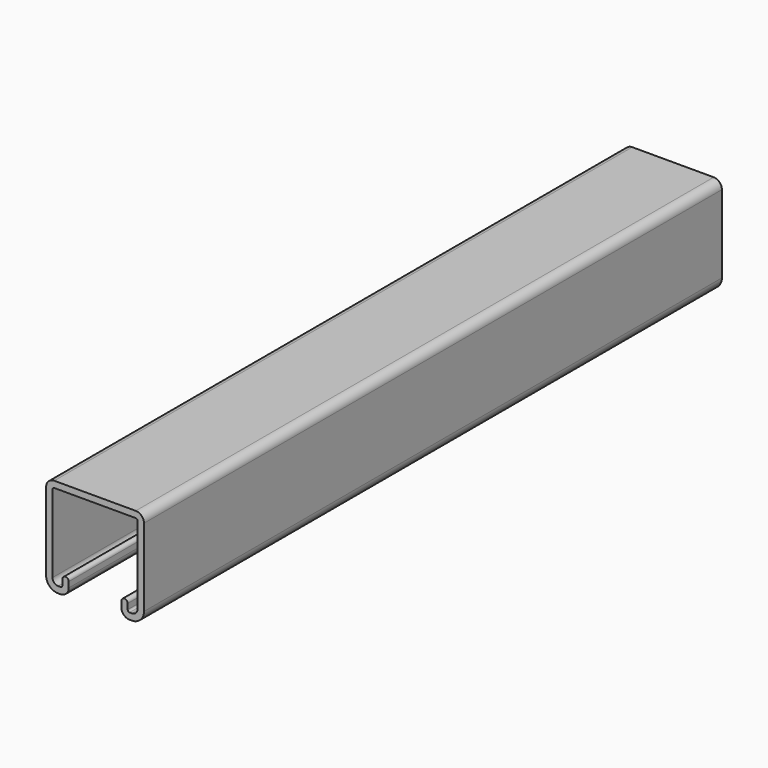
from build123d import *

# Parameters (mm, degrees)
F1_DEPTH = 304.8


with BuildPart() as f1:
    # F0 (on Front) → F1 (new body)
    with BuildSketch(Plane.XZ):
        with BuildLine():
            ThreePointArc((-258.715298, -55.220959), (-255.136864, -53.738723), (-253.654628, -50.160289))
            add(Edge.make_bspline(
                [(-253.654628, -50.160289), (-253.654628, -46.519622), (-253.654628, -39.238289), (-253.654628, -28.316289), (-253.654628, -21.034956), (-253.654628, -17.394289)],
                knots=[0, 0, 0, 0, 10.922, 21.844, 32.766, 32.766, 32.766, 32.766], degree=3))
            ThreePointArc((-253.654628, -17.394289), (-254.671896, -14.938387), (-257.127798, -13.921119))
            add(Edge.make_bspline(
                [(-257.127798, -13.921119), (-260.944854, -13.921119), (-268.578965, -13.921119), (-280.030132, -13.921119), (-287.664243, -13.921119), (-291.481298, -13.921119)],
                knots=[0, 0, 0, 0, 11.451167, 22.902333, 34.3535, 34.3535, 34.3535, 34.3535], degree=3))
            ThreePointArc((-291.481298, -13.921119), (-293.9372, -14.938387), (-294.954468, -17.394289))
            add(Edge.make_bspline(
                [(-294.954468, -17.394289), (-294.954468, -21.034956), (-294.954468, -28.316289), (-294.954468, -39.238289), (-294.954468, -46.519622), (-294.954468, -50.160289)],
                knots=[0, 0, 0, 0, 10.922, 21.844, 32.766, 32.766, 32.766, 32.766], degree=3))
            ThreePointArc((-294.954468, -50.160289), (-293.472232, -53.738723), (-289.893798, -55.220959))
            add(Edge.make_bspline(
                [(-289.893798, -55.220959), (-289.780909, -55.220959), (-289.555132, -55.220959), (-289.216465, -55.220959), (-288.990687, -55.220959), (-288.877798, -55.220959)],
                knots=[0, 0, 0, 0, 0.338667, 0.677333, 1.016, 1.016, 1.016, 1.016], degree=3))
            ThreePointArc((-288.877798, -55.220959), (-286.421896, -54.203691), (-285.404628, -51.747789))
            add(Edge.make_bspline(
                [(-285.404628, -51.747789), (-285.404628, -51.487439), (-285.404628, -50.966739), (-285.404628, -50.185689), (-285.404628, -49.664989), (-285.404628, -49.404639)],
                knots=[0, 0, 0, 0, 0.78105, 1.5621, 2.34315, 2.34315, 2.34315, 2.34315], degree=3))
            ThreePointArc((-285.404628, -49.404639), (-286.750548, -48.058719), (-288.096468, -49.404639))
            add(Edge.make_bspline(
                [(-288.096468, -49.404639), (-288.096468, -49.664989), (-288.096468, -50.185689), (-288.096468, -50.966739), (-288.096468, -51.487439), (-288.096468, -51.747789)],
                knots=[0, 0, 0, 0, 0.78105, 1.5621, 2.34315, 2.34315, 2.34315, 2.34315], degree=3))
            ThreePointArc((-288.096468, -51.747789), (-288.325315, -52.300273), (-288.877798, -52.529119))
            add(Edge.make_bspline(
                [(-288.877798, -52.529119), (-288.990687, -52.529119), (-289.216465, -52.529119), (-289.555132, -52.529119), (-289.780909, -52.529119), (-289.893798, -52.529119)],
                knots=[0, 0, 0, 0, 0.338667, 0.677333, 1.016, 1.016, 1.016, 1.016], degree=3))
            ThreePointArc((-289.893798, -52.529119), (-291.568814, -51.835305), (-292.262628, -50.160289))
            add(Edge.make_bspline(
                [(-292.262628, -17.394289), (-292.262628, -21.034956), (-292.262628, -28.316289), (-292.262628, -39.238289), (-292.262628, -46.519622), (-292.262628, -50.160289)],
                knots=[0, 0, 0, 0, 10.922, 21.844, 32.766, 32.766, 32.766, 32.766], degree=3))
            ThreePointArc((-292.262628, -17.394289), (-292.033782, -16.841805), (-291.481298, -16.612959))
            add(Edge.make_bspline(
                [(-291.481298, -16.612959), (-287.664243, -16.612959), (-280.030132, -16.612959), (-268.578965, -16.612959), (-260.944854, -16.612959), (-257.127798, -16.612959)],
                knots=[0, 0, 0, 0, 11.451167, 22.902333, 34.3535, 34.3535, 34.3535, 34.3535], degree=3))
            ThreePointArc((-257.127798, -16.612959), (-256.575315, -16.841805), (-256.346468, -17.394289))
            add(Edge.make_bspline(
                [(-256.346468, -17.394289), (-256.346468, -21.034956), (-256.346468, -28.316289), (-256.346468, -39.238289), (-256.346468, -46.519622), (-256.346468, -50.160289)],
                knots=[0, 0, 0, 0, 10.922, 21.844, 32.766, 32.766, 32.766, 32.766], degree=3))
            ThreePointArc((-256.346468, -50.160289), (-257.040283, -51.835305), (-258.715298, -52.529119))
            add(Edge.make_bspline(
                [(-258.715298, -52.529119), (-258.828187, -52.529119), (-259.053965, -52.529119), (-259.392632, -52.529119), (-259.618409, -52.529119), (-259.731298, -52.529119)],
                knots=[0, 0, 0, 0, 0.338667, 0.677333, 1.016, 1.016, 1.016, 1.016], degree=3))
            ThreePointArc((-259.731298, -52.529119), (-260.283782, -52.300273), (-260.512628, -51.747789))
            add(Edge.make_bspline(
                [(-260.512628, -51.747789), (-260.512628, -51.487439), (-260.512628, -50.966739), (-260.512628, -50.185689), (-260.512628, -49.664989), (-260.512628, -49.404639)],
                knots=[0, 0, 0, 0, 0.78105, 1.5621, 2.34315, 2.34315, 2.34315, 2.34315], degree=3))
            ThreePointArc((-260.512628, -49.404639), (-261.858548, -48.058719), (-263.204468, -49.404639))
            add(Edge.make_bspline(
                [(-263.204468, -49.404639), (-263.204468, -49.664989), (-263.204468, -50.185689), (-263.204468, -50.966739), (-263.204468, -51.487439), (-263.204468, -51.747789)],
                knots=[0, 0, 0, 0, 0.78105, 1.5621, 2.34315, 2.34315, 2.34315, 2.34315], degree=3))
            ThreePointArc((-263.204468, -51.747789), (-262.1872, -54.203691), (-259.731298, -55.220959))
            add(Edge.make_bspline(
                [(-259.731298, -55.220959), (-259.618409, -55.220959), (-259.392632, -55.220959), (-259.053965, -55.220959), (-258.828187, -55.220959), (-258.715298, -55.220959)],
                knots=[0, 0, 0, 0, 0.338667, 0.677333, 1.016, 1.016, 1.016, 1.016], degree=3))
        make_face()
    extrude(amount=F1_DEPTH)


solid = f1.part
